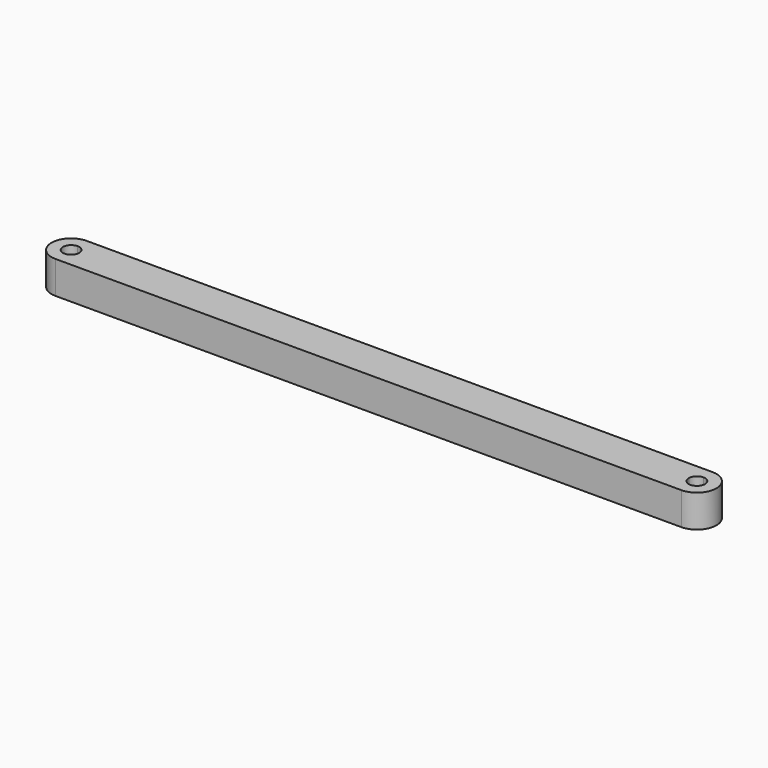
from build123d import *

# Parameters (mm, degrees)
F1_DEPTH = 6.35


with BuildPart() as f1:
    # F0 (on Top) → F1 (new body)
    with BuildSketch(Plane.XY):
        with BuildLine():
            ThreePointArc((-61, 1.5875), (-59.877468, 1.122532), (-59.4125, 0))
            Line((-59.4125, 0), (59.4125, 0))
            ThreePointArc((59.4125, 0), (59.877468, 1.122532), (61, 1.5875))
            Line((61, 1.5875), (61, 3.81))
            Line((61, 3.81), (-61, 3.81))
            Line((-61, 3.81), (-61, 1.5875))
        make_face()
        with BuildLine():
            Line((59.4125, 0), (-59.4125, 0))
            ThreePointArc((-59.4125, 0), (-59.877468, -1.122532), (-61, -1.5875))
            Line((-61, -1.5875), (-61, -3.81))
            Line((-61, -3.81), (61, -3.81))
            Line((61, -3.81), (61, -1.5875))
            ThreePointArc((61, -1.5875), (59.877468, -1.122532), (59.4125, 0))
        make_face()
        with BuildLine():
            Line((-61, -3.81), (-61, -1.5875))
            ThreePointArc((-61, -1.5875), (-62.5875, 0), (-61, 1.5875))
            Line((-61, 1.5875), (-61, 3.81))
            ThreePointArc((-61, 3.81), (-64.81, 0), (-61, -3.81))
        make_face()
        with BuildLine():
            Line((61, 3.81), (61, 1.5875))
            ThreePointArc((61, 1.5875), (62.122532, 1.122532), (62.5875, 0))
            ThreePointArc((62.5875, 0), (62.122532, -1.122532), (61, -1.5875))
            Line((61, -1.5875), (61, -3.81))
            ThreePointArc((61, -3.81), (64.81, 0), (61, 3.81))
        make_face()
    extrude(amount=F1_DEPTH)


solid = f1.part
